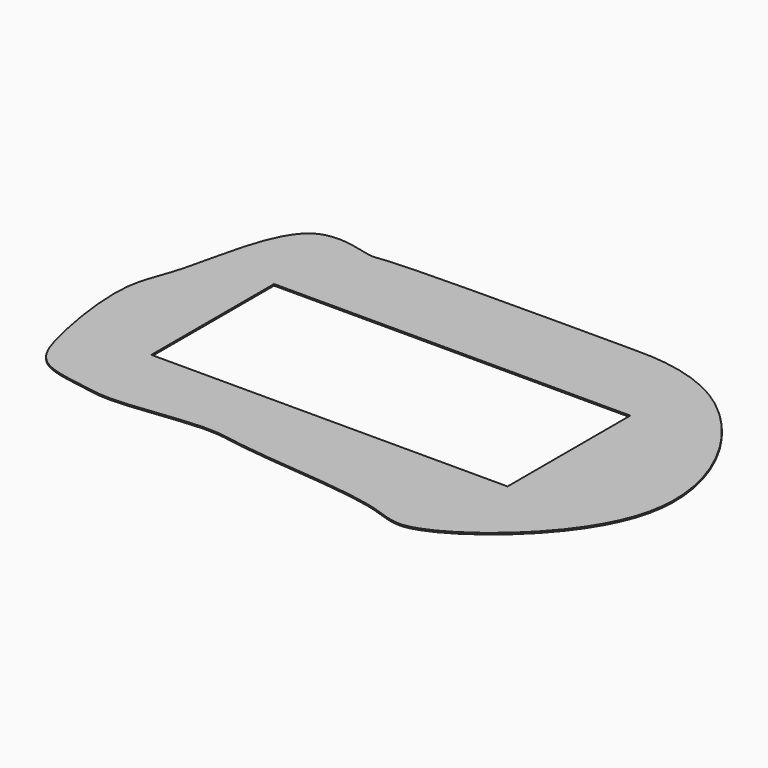
from build123d import *

# Parameters (mm, degrees)
F0_W     = 7200
F0_H     = 3100
F1_DEPTH = 30


with BuildPart() as f1:
    # F0 (on Top) → F1 (new body)
    with BuildSketch(Plane.XY):
        with BuildLine():
            add(Edge.make_bspline(
                [(-2679.9342632294, 3286.0896587372), (-1894.2793361293, 3354.102886519), (2169.3487960151, 3339.3774514757), (2324.1255844619, 3347.4641558216), (4550.2482736579, 3297.0215426634), (7161.0185701349, -955.3537827934), (3268.0836254666, -3973.0267787437), (2444.2236486134, -3278.871290182), (-544.1697431272, -3134.1502507121), (-1270.1007325297, -2869.9718104518), (-3175.7788609086, -3192.1704777094), (-3756.2900692812, -3028.211326813), (-4801.7578727581, -2919.8183629212), (-5187.045989037, -1997.992472893), (-5504.4951405925, 114.5929962862), (-4973.0354441383, 933.9276223427), (-4607.0396962933, 3793.6272114433), (-2975.5857267694, 3196.7855372253), (-2903.1764309566, 3266.763845482), (-2679.9342632294, 3286.0896587372)],
                knots=[0, 0, 0, 0, 0.101502025, 0.1280760572, 0.1906011959, 0.285041678, 0.3755921045, 0.4219002403, 0.4998073977, 0.5450916138, 0.6070278412, 0.6452817703, 0.6892660901, 0.7344944568, 0.8004579746, 0.8500260765, 0.921648735, 0.9711584166, 1, 1, 1, 1], degree=3))
        make_face()
        Rectangle(F0_W, F0_H, mode=Mode.SUBTRACT)
    extrude(amount=-F1_DEPTH)


solid = f1.part
